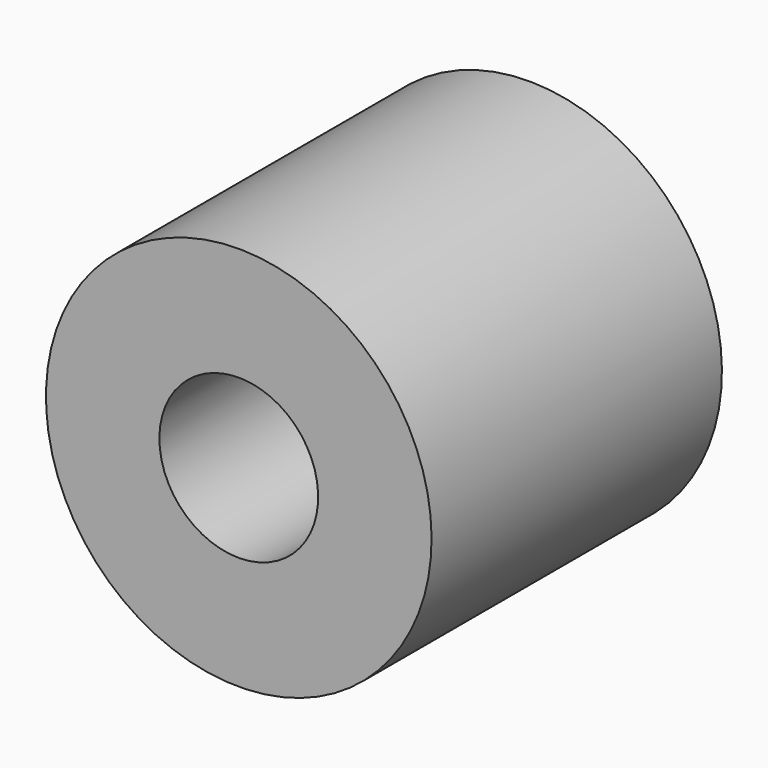
from build123d import *

# Parameters (mm, degrees)
CYLINDER_R           = 1.75
CYLINDER_DEPTH       = 10
CYLINDER001_R        = 4.25
CYLINDER001_DEPTH    = 8
CLONE002_ROLL_ANGLE  = 90
CLONE002_PITCH_ANGLE = -45


with BuildPart() as spacer_hole_cylinder:
    # Cylinder → Cylinder (new body)
    with BuildSketch(Plane.XY.offset(-1)):
        Circle(CYLINDER_R)
    extrude(amount=CYLINDER_DEPTH)


with BuildPart() as x_motor_spacer_right:
    # Cylinder001 → Cylinder001 (new body)
    with BuildSketch(Plane.XY):
        Circle(CYLINDER001_R)
    extrude(amount=CYLINDER001_DEPTH)

    # Cut002: cut spacer-hole-cylinder
    add(spacer_hole_cylinder.part, mode=Mode.SUBTRACT)


with BuildPart() as x_motor_spacer_right_1:
    # Clone002 roll: moved
    add(x_motor_spacer_right.part.rotate(Axis((0, 0, 0), (1, 0, 0)), CLONE002_ROLL_ANGLE))


with BuildPart() as x_motor_spacer_right_2:
    # Clone002 pitch: moved
    add(x_motor_spacer_right_1.part.rotate(Axis((0, 0, 0), (0, 1, 0)), CLONE002_PITCH_ANGLE))


with BuildPart() as x_motor_spacer_right_3:
    # Clone002 placement: moved
    add(x_motor_spacer_right_2.part.moved(Location((-31.115224, 1, 23))))


solid = x_motor_spacer_right_3.part
